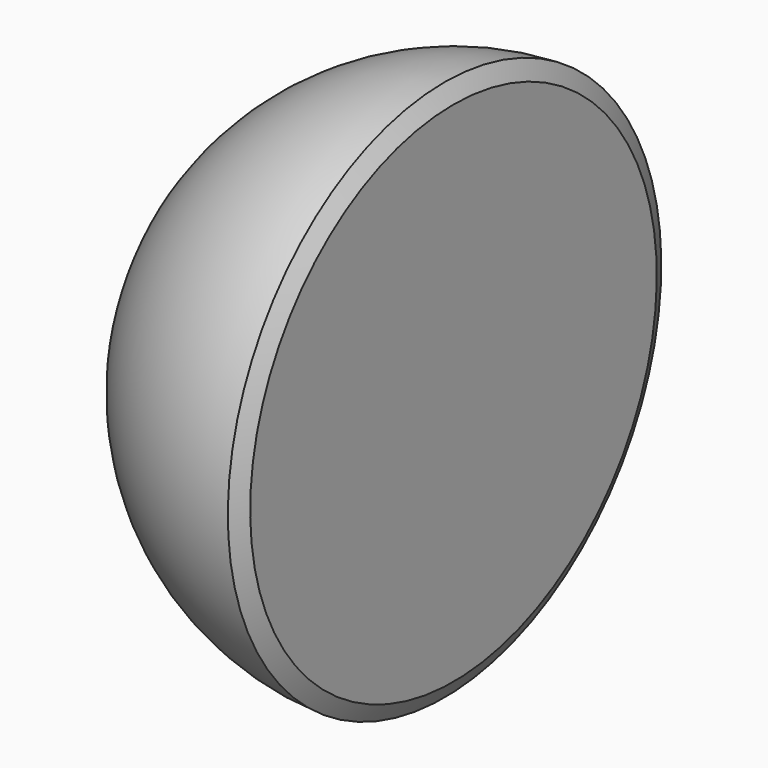
from build123d import *


with BuildPart() as f1:
    # F0 (on Front) → F1 (revolve)
    with BuildSketch(Plane.XZ):
        with BuildLine():
            Line((0, 166.6875), (-5.857308, 177.703494))
            ThreePointArc((-5.857308, 177.703494), (-127.777677, 123.635372), (-177.8, 0))
            Line((-177.8, 0), (-166.6875, 0))
            ThreePointArc((-166.6875, 0), (-117.865862, 117.865862), (0, 166.6875))
        make_face()
        with BuildLine():
            Line((0, 0), (0, 166.6875))
            ThreePointArc((0, 166.6875), (-117.865862, 117.865862), (-166.6875, 0))
            Line((-166.6875, 0), (0, 0))
        make_face()
    revolve(axis=Axis((-88.9, 0, 0), (-1, 0, 0)))


solid = f1.part
